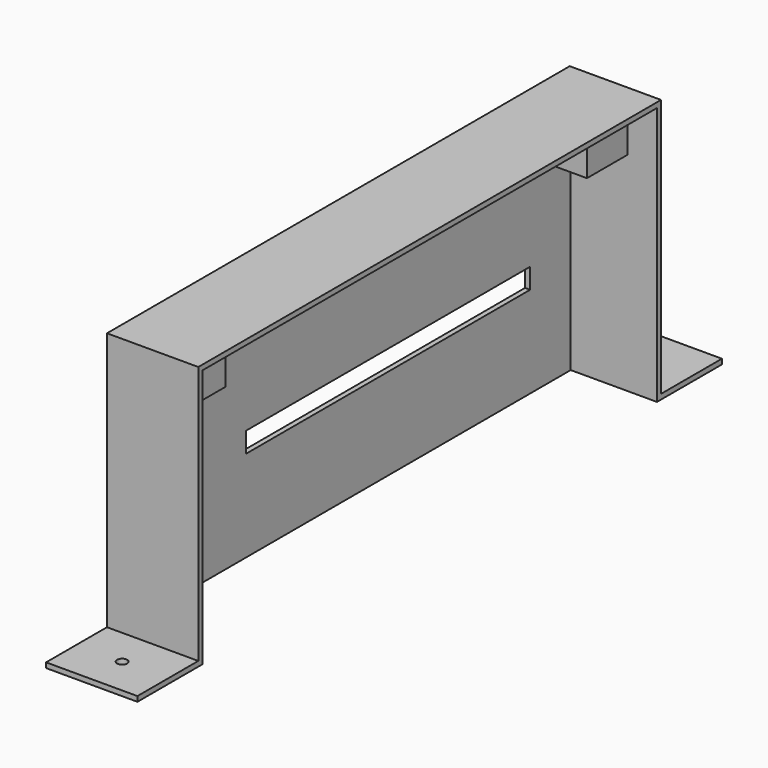
from build123d import *

# Parameters (mm, degrees)
F0_W     = 18
F0_H     = 114
F1_DEPTH = 52
F2_W     = 17
F2_H     = 112
F3_DEPTH = 51
F4_W     = 18
F4_H     = 15
F4_R     = 1
F5_DEPTH = 1
F6_W     = 70
F6_H     = 4
F7_DEPTH = 1
F8_W     = 10
F8_H     = 10
F9_DEPTH = 11.2


with BuildPart() as f1:
    # F0 (on Top) → F1 (new body)
    with BuildSketch(Plane.XY):
        with Locations((-9, 0)):
            Rectangle(F0_W, F0_H)
    extrude(amount=F1_DEPTH)

    # F2 (on face) → F3 (cut)
    with BuildSketch(Plane(origin=(0, 0, 0), x_dir=(1, 0, 0), z_dir=(0, 0, -1))):
        with Locations((-8.5, 0)):
            Rectangle(F2_W, F2_H)
    extrude(amount=-F3_DEPTH, mode=Mode.SUBTRACT)

    # F4 (on Top) → F5 (join)
    with BuildSketch(Plane.XY):
        with Locations((-9, 64.5)):
            Rectangle(F4_W, F4_H)
        with Locations((-9, 64.5)):
            Circle(F4_R, mode=Mode.SUBTRACT)
        with Locations((-9, -64.5)):
            Rectangle(F4_W, F4_H)
        with Locations((-9, -64.5)):
            Circle(F4_R, mode=Mode.SUBTRACT)
    extrude(amount=F5_DEPTH)

    # F6 (on face) → F7 (cut)
    with BuildSketch(Plane.YZ.offset(-17)):
        with Locations((11, 20)):
            Rectangle(F6_W, F6_H)
    extrude(amount=-F7_DEPTH, mode=Mode.SUBTRACT)

    # F8 (on face) → F9 (join)
    with BuildSketch(Plane.YZ.offset(-17)):
        with Locations((-48, 46)):
            Rectangle(F8_W, F8_H)
        with Locations((51, 46)):
            Rectangle(F8_W, F8_H)
    extrude(amount=F9_DEPTH)


solid = f1.part
